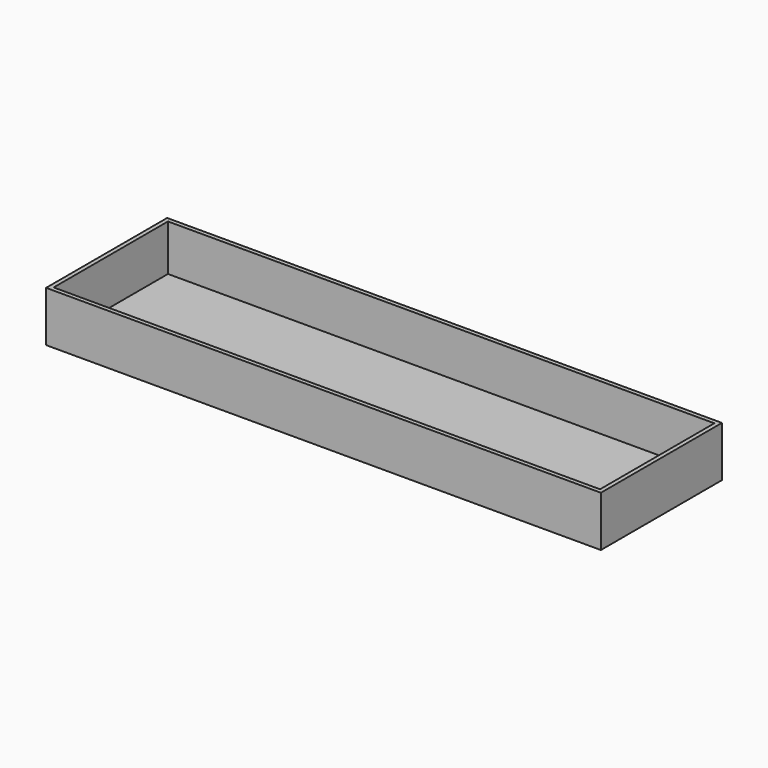
from build123d import *

# Parameters (mm, degrees)
F0_W     = 838.2
F0_H     = 228.6
F1_DEPTH = 38.1
F2_T     = -6.35


with BuildPart() as f1:
    # F0 (on Top) → F1 (new body, symmetric)
    with BuildSketch(Plane.XY):
        Rectangle(F0_W, F0_H)
    extrude(amount=F1_DEPTH, both=True)

    # F2
    f2_openings = [f1.faces().sort_by_distance(p)[0] for p in [
        (0, 0, 38.1),
    ]]
    offset(amount=F2_T, openings=f2_openings)


solid = f1.part
